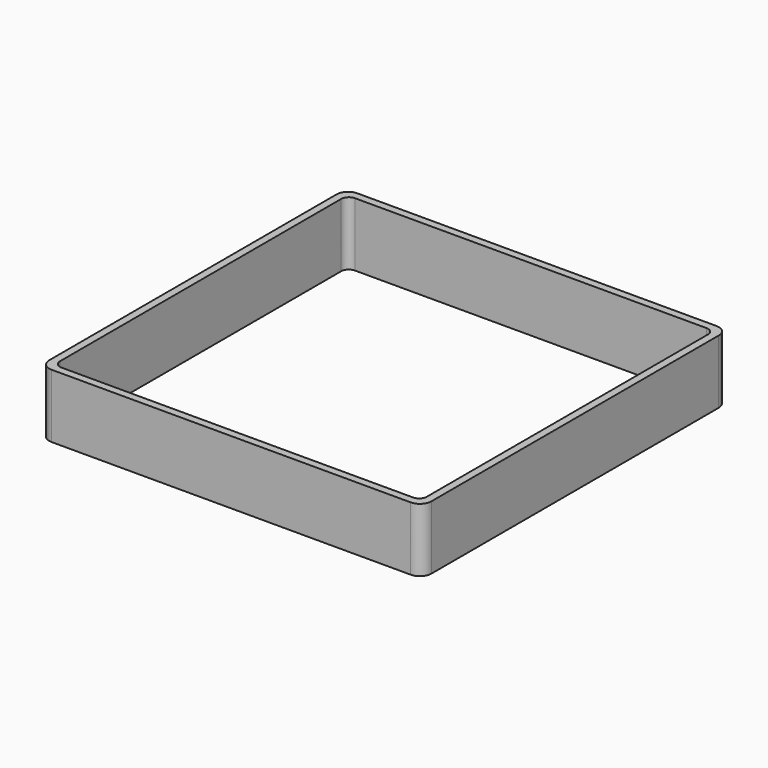
from build123d import *

# Parameters (mm, degrees)
EXTRUDE_DEPTH = 50


with BuildPart() as part:
    # Sketch → Extrude (new body)
    with BuildSketch(Plane.XY):
        with BuildLine():
            Line((-141, 150), (141, 150))
            ThreePointArc((150, 141), (147.363961, 147.363961), (141, 150))
            Line((150, 141), (150, -141))
            ThreePointArc((141, -150), (147.363961, -147.363961), (150, -141))
            Line((141, -150), (-141, -150))
            ThreePointArc((-150, -141), (-147.363961, -147.363961), (-141, -150))
            Line((-150, -141), (-150, 141))
            ThreePointArc((-141, 150), (-147.363961, 147.363961), (-150, 141))
        make_face()
        with BuildLine():
            Line((-138, 144), (138, 144))
            ThreePointArc((144, 138), (142.242641, 142.242641), (138, 144))
            Line((144, 138), (144, -138))
            ThreePointArc((138, -144), (142.242641, -142.242641), (144, -138))
            Line((138, -144), (-138, -144))
            ThreePointArc((-144, -138), (-142.242641, -142.242641), (-138, -144))
            Line((-144, -138), (-144, 138))
            ThreePointArc((-138, 144), (-142.242641, 142.242641), (-144, 138))
        make_face(mode=Mode.SUBTRACT)
    extrude(amount=EXTRUDE_DEPTH)


solid = part.part
